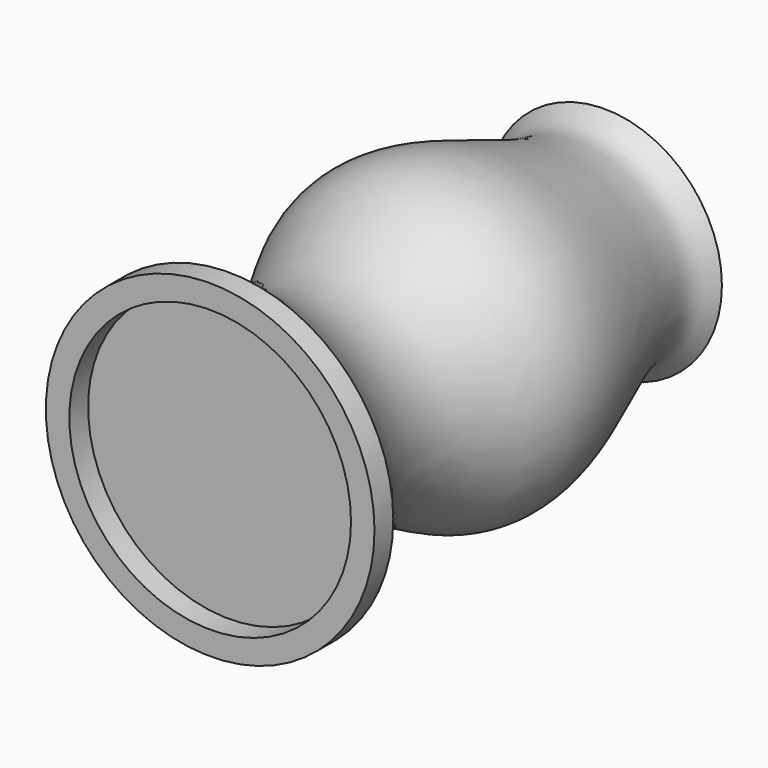
from build123d import *

# Parameters (mm, degrees)
F2_T = -2.5


with BuildPart() as f1:
    # F0 (on Top) → F1 (revolve)
    with BuildSketch(Plane.XY):
        with BuildLine():
            Line((25, 79.9363073582), (0, 79.9363073582))
            Line((0, 79.9363073582), (0, -20.0636926418))
            Line((0, -20.0636926418), (30, -20.0636926418))
            Line((30, -20.0636926418), (30, -25.0636926418))
            Line((30, -25.0636926418), (35, -25.0636926418))
            Line((35, -25.0636926418), (35, -20.0636926418))
            add(Edge.make_bspline(
                [(25, 79.9363073582), (23.9161067839, 78.4938079993), (18.9179605467, 74.5226612061), (31.7109045567, 48.3060810968), (36.2926780674, 22.9312381857), (13.7707371693, 3.5562152899), (35, -20.0636926418)],
                knots=[0, 0, 0, 0, 0.127591222, 0.3954487092, 0.6491807748, 1, 1, 1, 1], degree=3))
        make_face()
    revolve(axis=Axis((0, 29.9363073582, 0), (0, -1, 0)))

    # F2
    f2_openings = [f1.faces().sort_by_distance(p)[0] for p in [
        (0, 79.936307, 0),
    ]]
    offset(amount=F2_T, openings=f2_openings)


solid = f1.part
